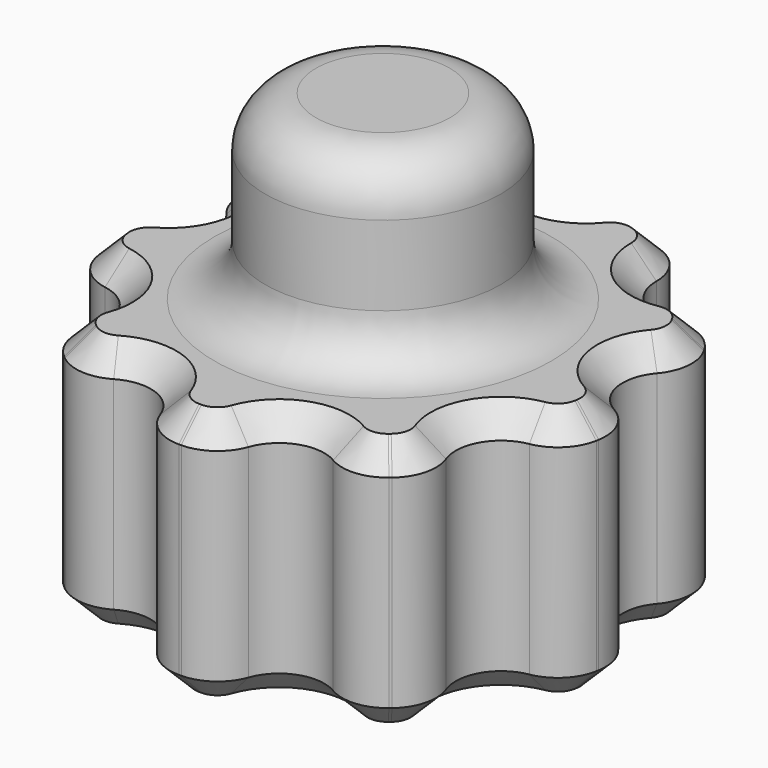
from build123d import *

# Parameters (mm, degrees)
SKETCH004_R        = 10
PAD005_DEPTH       = 10
SKETCH005_R        = 1.785714
POCKET_DEPTH       = 70.001
POLARPATTERN_COUNT = 9
SKETCH006_R        = 4.642857
PAD006_DEPTH       = 7.142857
FILLET_R           = 1.8
CHAMFER_SIZE       = 1
FILLET001_R        = 2


with BuildPart() as part:
    # Sketch004 → Pad005 (new body)
    with BuildSketch(Plane.XY):
        Circle(SKETCH004_R)
    extrude(amount=PAD005_DEPTH)

    # Sketch005 (on Face3 of Pad005) → Pocket (cut, through all)
    with BuildSketch(Plane.XY.offset(10)):
        with Locations((0, 10)):
            Circle(SKETCH005_R)
    pocket = extrude(amount=-POCKET_DEPTH, mode=Mode.SUBTRACT)

    # PolarPattern: Pocket ×9 about axis
    polarpattern_axis = Axis((0, 0, 10), (0, 0, 1))
    for i in range(1, POLARPATTERN_COUNT):
        add(pocket.rotate(polarpattern_axis, i * 360 / POLARPATTERN_COUNT), mode=Mode.SUBTRACT)

    # Sketch006 (on Face20 of PolarPattern) → Pad006 (join)
    with BuildSketch(Plane.XY.offset(10)):
        Circle(SKETCH006_R)
    extrude(amount=PAD006_DEPTH)

    # Fillet
    fillet_edges = [part.edges().sort_by_distance(p)[0] for p in [
        (7.632885, -6.460578, 5),
        (5.036991, -8.638792, 5),
        (1.69435, -9.855414, 5),
        (-1.69435, -9.855414, 5),
        (-5.036991, -8.638792, 5),
        (-7.632885, -6.460578, 5),
        (-9.411467, -3.379983, 5),
        (-9.999909, -0.042766, 5),
        (-9.382213, 3.460357, 5),
        (-7.687864, 6.395057, 5),
        (-4.962918, 8.681558, 5),
        (-1.778582, 9.840561, 5),
        (1.778582, 9.840561, 5),
        (4.962918, 8.681558, 5),
        (7.687864, 6.395057, 5),
        (9.382213, 3.460357, 5),
        (9.999909, -0.042766, 5),
        (9.411467, -3.379983, 5),
    ]]
    fillet(fillet_edges, radius=FILLET_R)

    # Chamfer
    chamfer_edges = [part.edges().sort_by_distance(p)[0] for p in [
        (-8.089492, 1.426396, 0),
        (0, 8.214286, 10),
    ]]
    chamfer(chamfer_edges, length=CHAMFER_SIZE)

    # Fillet001
    fillet001_edges = [part.edges().sort_by_distance(p)[0] for p in [
        (-4.642857, 0, 10),
        (-4.642857, 0, 17.142857),
    ]]
    fillet(fillet001_edges, radius=FILLET001_R)


solid = part.part
